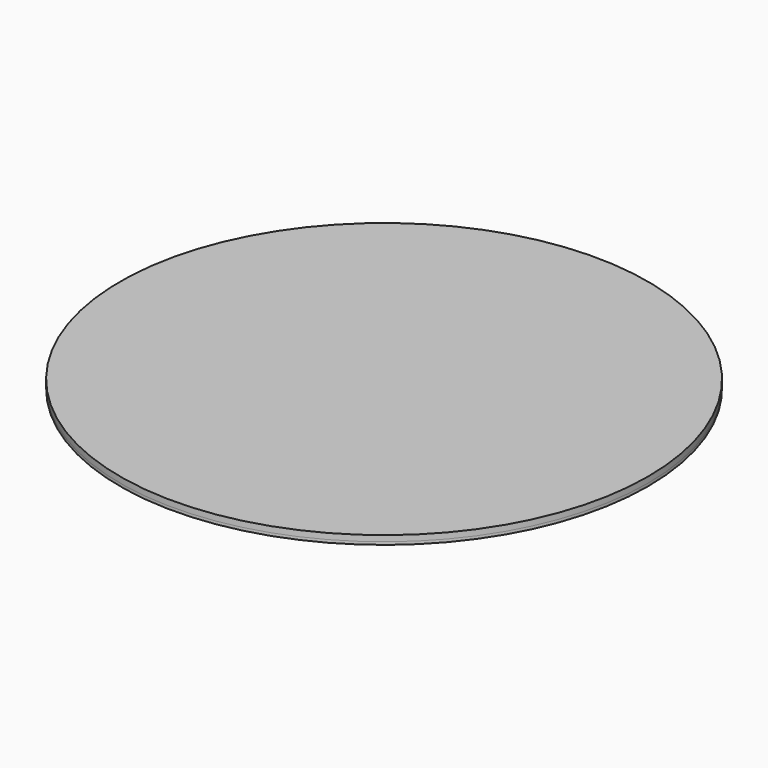
from build123d import *

# Parameters (mm, degrees)
F0_R     = 150
F1_DEPTH = 3.3
F2_DEPTH = 1.6


with BuildPart() as f1:
    # F0 (on Top) → F1 (new body)
    with BuildSketch(Plane.XY):
        Circle(F0_R)
    extrude(amount=F1_DEPTH)


with BuildPart() as f2:
    # F0 (on Top) → F2 (new body)
    with BuildSketch(Plane.XY):
        Circle(F0_R)
    extrude(amount=-F2_DEPTH)


solid = Compound([f1.part, f2.part])
